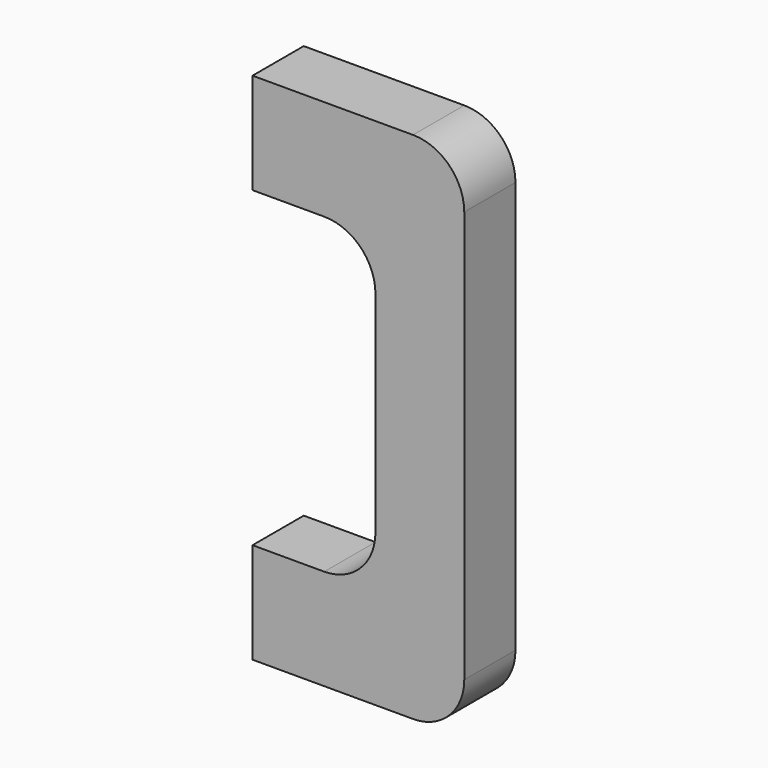
from build123d import *

# Parameters (mm, degrees)
F1_DEPTH = 127


with BuildPart() as f1:
    # F0 (on Front) → F1 (new body)
    with BuildSketch(Plane.XZ):
        with BuildLine():
            ThreePointArc((210, 408.4), (180.242049, 480.242049), (108.4, 510))
            Line((108.4, 510), (-210, 510))
            Line((-210, 510), (-210, 310))
            Line((-210, 310), (-67.76, 310))
            ThreePointArc((-67.76, 310), (4.082049, 280.242049), (33.84, 208.4))
            Line((33.84, 208.4), (33.84, -208.4))
            ThreePointArc((33.84, -208.4), (4.082049, -280.242049), (-67.76, -310))
            Line((-67.76, -310), (-210, -310))
            Line((-210, -310), (-210, -510))
            Line((-210, -510), (108.4, -510))
            ThreePointArc((108.4, -510), (180.242049, -480.242049), (210, -408.4))
            Line((210, -408.4), (210, 408.4))
        make_face()
    extrude(amount=F1_DEPTH)


solid = f1.part
